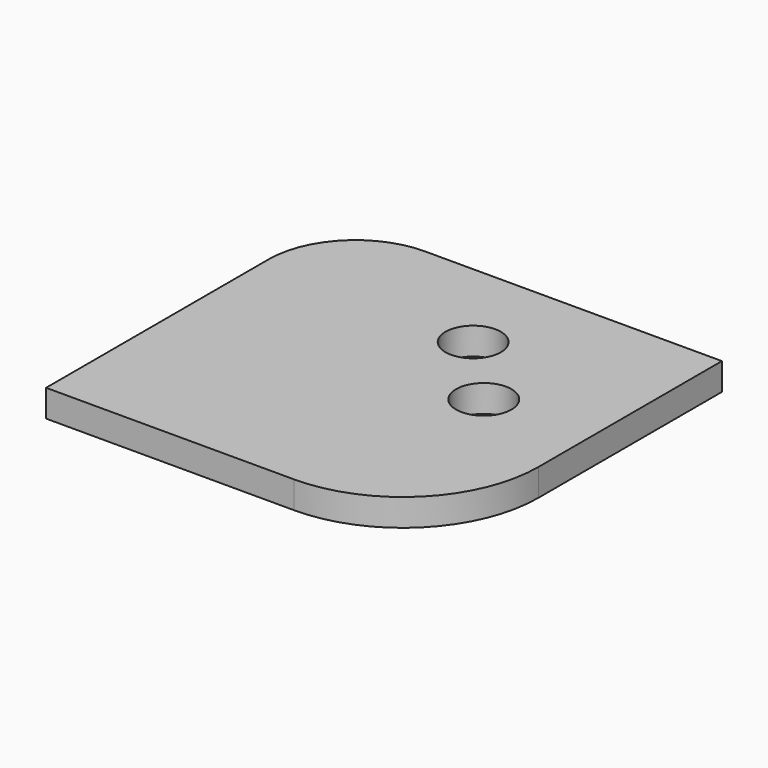
from build123d import *

# Parameters (mm, degrees)
F0_R     = 5.099044
F1_DEPTH = 5


with BuildPart() as f1:
    # F0 (on Top) → F1 (new body)
    with BuildSketch(Plane.XY):
        with BuildLine():
            Line((37.814684, 28.819932), (-16.888112, 28.819932))
            ThreePointArc((-16.888112, 28.819932), (-28.180807, 24.142344), (-32.858394, 12.84965))
            Line((-32.858394, 12.84965), (-32.858394, -38.365386))
            Line((-32.858394, -38.365386), (37.814684, 28.819932))
        make_face()
        with Locations((6.184675, 11.114381)):
            Circle(F0_R, mode=Mode.SUBTRACT)
        with BuildLine():
            Line((37.814684, -13.377436), (37.814684, 28.819932))
            Line((37.814684, 28.819932), (-32.858394, -38.365386))
            Line((-32.858394, -38.365386), (12.826733, -38.365386))
            ThreePointArc((12.826733, -38.365386), (30.495883, -31.046585), (37.814684, -13.377436))
        make_face()
        with Locations((18.532356, -1.8743)):
            Circle(F0_R, mode=Mode.SUBTRACT)
    extrude(amount=F1_DEPTH)


solid = f1.part
